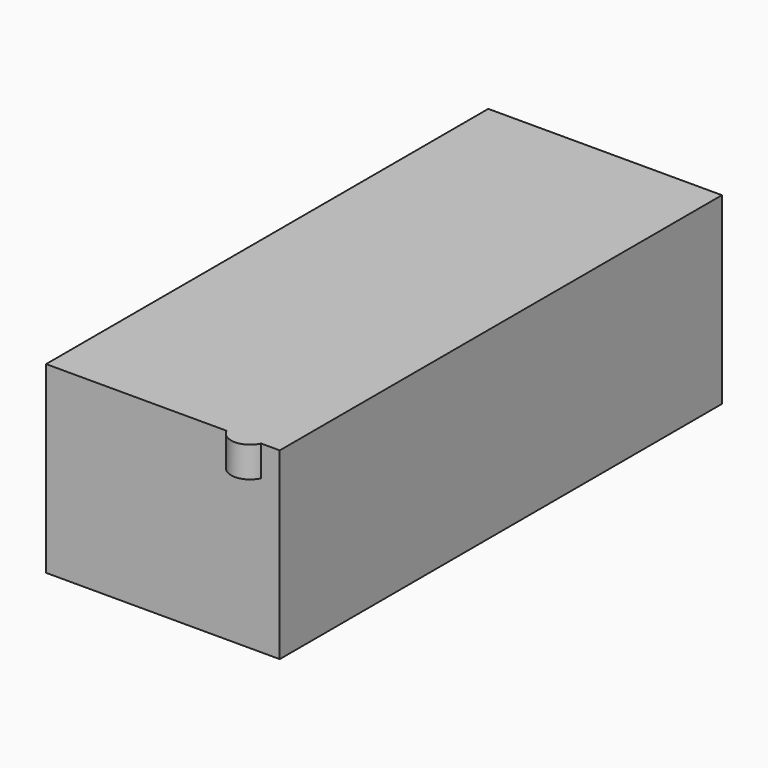
from build123d import *

# Parameters (mm, degrees)
F0_W     = 10.45
F0_H     = 24.72
F1_DEPTH = 8.22
F2_R     = 0.845507
F3_DEPTH = 1.37


with BuildPart() as f1:
    # F0 (on Top) → F1 (new body)
    with BuildSketch(Plane.XY):
        with Locations((-27.746155, -7.76654)):
            Rectangle(F0_W, F0_H)
    extrude(amount=-F1_DEPTH)

    # F2 (on Top) → F3 (join)
    with BuildSketch(Plane.XY):
        with Locations((-24.125788, -19.778986)):
            Circle(F2_R)
    extrude(amount=-F3_DEPTH)


solid = f1.part
